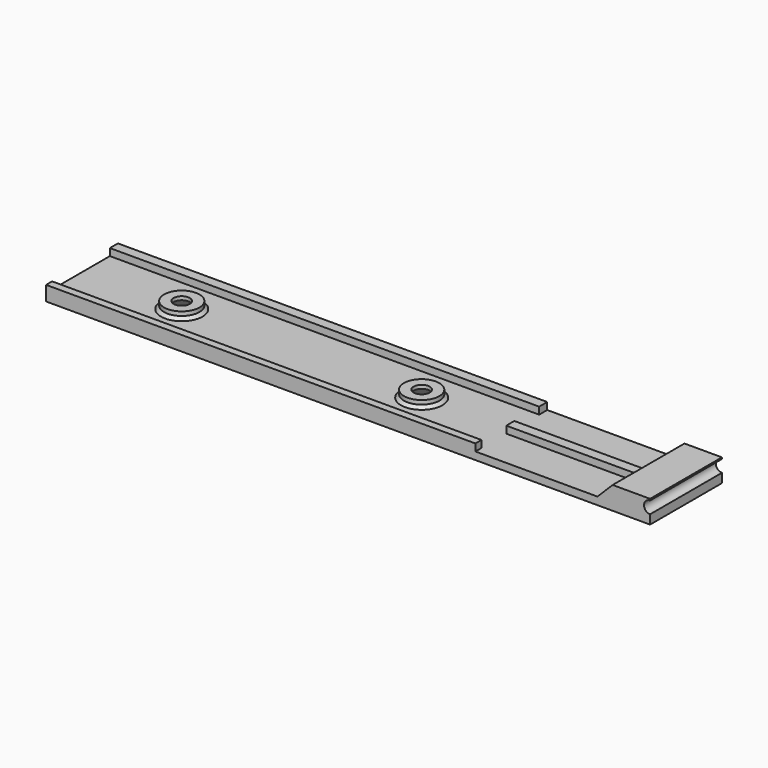
from build123d import *

# Parameters (mm, degrees)
SKETCH_R        = 3.5
SKETCH_R_2      = 1.6
PAD_DEPTH       = 1.4
SKETCH001_W     = 119.586
SKETCH001_H     = 17.78
SKETCH001_R     = 1.6
PAD001_DEPTH    = 1.5
SKETCH002_R     = 3.5
SKETCH002_R_2   = 1.6
PAD002_DEPTH    = 1.4
SKETCH003_R     = 1.6
POCKET_DEPTH    = 2.901
PAD003_DEPTH    = 17.78
CHAMFER_SIZE    = 2.2
CHAMFER002_SIZE = 0.6
SKETCH014_W     = 2
SKETCH014_H     = 1.4
SKETCH014_W_2   = 1.5
PAD009_DEPTH    = 85
SKETCH016_W     = 27.172
SKETCH016_H     = 2
PAD010_DEPTH    = 1.4


with BuildPart() as part:
    # Sketch (on Face1 of CopyPcb_f5c5) → Pad (new body)
    with BuildSketch(Plane(origin=(-93.484762, 101.426, -1.6), x_dir=(1, 0, 0), z_dir=(0, 0, -1))):
        with Locations((113.233762, 92.79)):
            Circle(SKETCH_R)
        with Locations((113.233762, 92.79)):
            Circle(SKETCH_R_2, mode=Mode.SUBTRACT)
    extrude(amount=PAD_DEPTH)

    # Sketch001 (on Face4 of Pad) → Pad001 (join)
    with BuildSketch(Plane(origin=(-93.484762, 101.426, -3), x_dir=(1, 0, 0), z_dir=(0, 0, -1))):
        with Locations((153.277762, 92.79)):
            Rectangle(SKETCH001_W, SKETCH001_H)
        with Locations((113.233762, 92.79)):
            Circle(SKETCH001_R, mode=Mode.SUBTRACT)
    extrude(amount=PAD001_DEPTH)

    # Sketch002 (on Face3 of Pad001) → Pad002 (join)
    with BuildSketch(Plane(origin=(-93.484762, 101.426, -3), x_dir=(1, 0, 0), z_dir=(0, 0, 1))):
        with Locations((160.733762, -92.79)):
            Circle(SKETCH002_R)
        with Locations((160.733762, -92.79)):
            Circle(SKETCH002_R_2, mode=Mode.SUBTRACT)
    extrude(amount=PAD002_DEPTH)

    # Sketch003 (on Face11 of Pad002) → Pocket (cut, through all)
    with BuildSketch(Plane(origin=(-93.484762, 101.426, -4.5), x_dir=(1, 0, 0), z_dir=(0, 0, -1))):
        with Locations((160.733762, 92.79)):
            Circle(SKETCH003_R)
    extrude(amount=-POCKET_DEPTH, mode=Mode.SUBTRACT)

    # Sketch004 (on Face6 of Pocket) → Pad003 (join)
    with BuildSketch(Plane(origin=(-93.484762, -0.254, -1.6), x_dir=(1, 0, 0), z_dir=(0, -1, 0))):
        with BuildLine():
            Line((202.656762, -1.4), (205.656762, 1.6))
            Line((205.656762, 1.6), (213.070762, 1.6))
            Line((213.070762, 1.3), (213.070762, 1.6))
            ThreePointArc((213.070762, 1.3), (211.870762, 0.1), (213.070762, -1.1))
            Line((213.070762, -1.1), (213.070762, -1.4))
            Line((213.070762, -1.4), (202.656762, -1.4))
        make_face()
    extrude(amount=-PAD003_DEPTH)

    # Chamfer
    chamfer_edges = [part.edges().sort_by_distance(p)[0] for p in [
        (18.149, 8.636, -4.5),
        (65.649, 8.636, -4.5),
    ]]
    chamfer(chamfer_edges, length=CHAMFER_SIZE)

    # Chamfer002
    chamfer002_edges = [part.edges().sort_by_distance(p)[0] for p in [
        (16.249, 8.636, -3),
        (63.749, 8.636, -3),
    ]]
    chamfer(chamfer002_edges, length=CHAMFER002_SIZE)

    # Sketch014 (on Face7 of Chamfer002) → Pad009 (join)
    with BuildSketch(Plane(origin=(0, 101.426, -1.6), x_dir=(0, -1, 0), z_dir=(-1, 0, 0))):
        with Locations((84.9, -0.7)):
            Rectangle(SKETCH014_W, SKETCH014_H)
        with Locations((100.93, -0.7)):
            Rectangle(SKETCH014_W_2, SKETCH014_H)
    extrude(amount=-PAD009_DEPTH)

    # Sketch016 (on Face4 of Pad009) → Pad010 (join)
    with BuildSketch(Plane(origin=(-93.484762, 101.426, -3), x_dir=(1, 0, 0), z_dir=(0, 0, 1))):
        with Locations((192.070762, -93.04)):
            Rectangle(SKETCH016_W, SKETCH016_H)
    extrude(amount=PAD010_DEPTH)


solid = part.part
